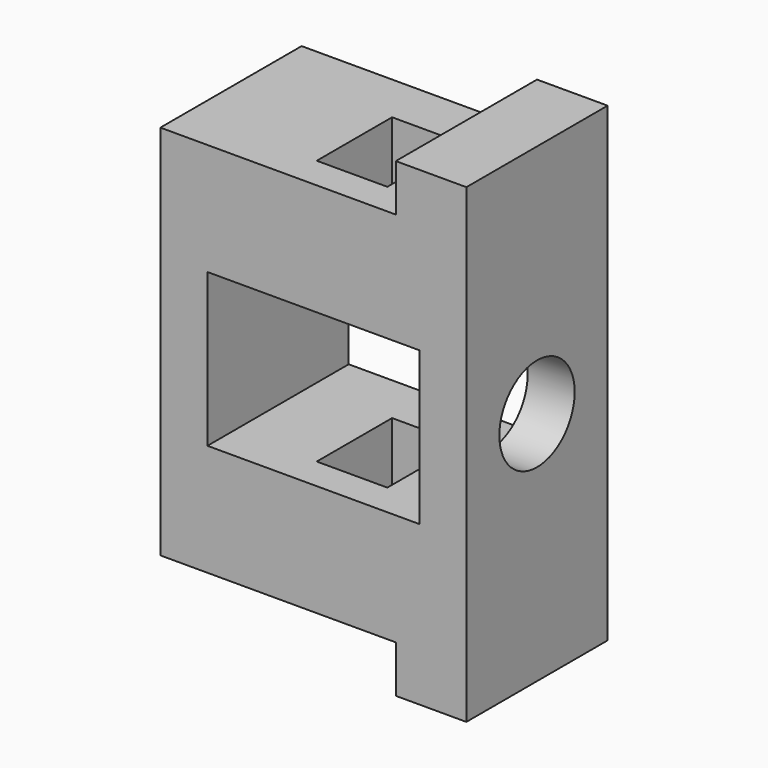
from build123d import *

# Parameters (mm, degrees)
F0_W      = 30
F0_H      = 64
F1_DEPTH  = 52
F2_W      = 36
F2_H      = 26
F3_DEPTH  = 100
F4_W      = 12
F4_H      = 30
F5_DEPTH  = 8
F6_W      = 12
F6_H      = 30
F7_DEPTH  = 8
F8_R      = 8
F9_DEPTH  = 10
F11_W     = 12
F11_H     = 16
F12_DEPTH = 100


with BuildPart() as f1:
    # F0 (on Right) → F1 (new body)
    with BuildSketch(Plane.YZ):
        Rectangle(F0_W, F0_H)
    extrude(amount=F1_DEPTH)

    # F2 (on face) → F3 (cut)
    with BuildSketch(Plane(origin=(0, 15, 0), x_dir=(-1, 0, 0), z_dir=(0, 1, 0))):
        with Locations((-26, 0)):
            Rectangle(F2_W, F2_H)
    extrude(amount=-F3_DEPTH, mode=Mode.SUBTRACT)

    # F4 (on face) → F5 (join)
    with BuildSketch(Plane(origin=(0, 0, -32), x_dir=(1, 0, 0), z_dir=(0, 0, -1))):
        with Locations((46, 0)):
            Rectangle(F4_W, F4_H)
    extrude(amount=F5_DEPTH)

    # F6 (on face) → F7 (join)
    with BuildSketch(Plane.XY.offset(32)):
        with Locations((46, 0)):
            Rectangle(F6_W, F6_H)
    extrude(amount=F7_DEPTH)

    # F8 (on face) → F9 (cut)
    with BuildSketch(Plane.YZ.offset(52)):
        Circle(F8_R)
    extrude(amount=-F9_DEPTH, mode=Mode.SUBTRACT)

    # F11 (on face) → F12 (cut)
    with BuildSketch(Plane.XY.offset(32)):
        with Locations((28.151316, -1.473685)):
            Rectangle(F11_W, F11_H)
    extrude(amount=-F12_DEPTH, mode=Mode.SUBTRACT)


solid = f1.part
